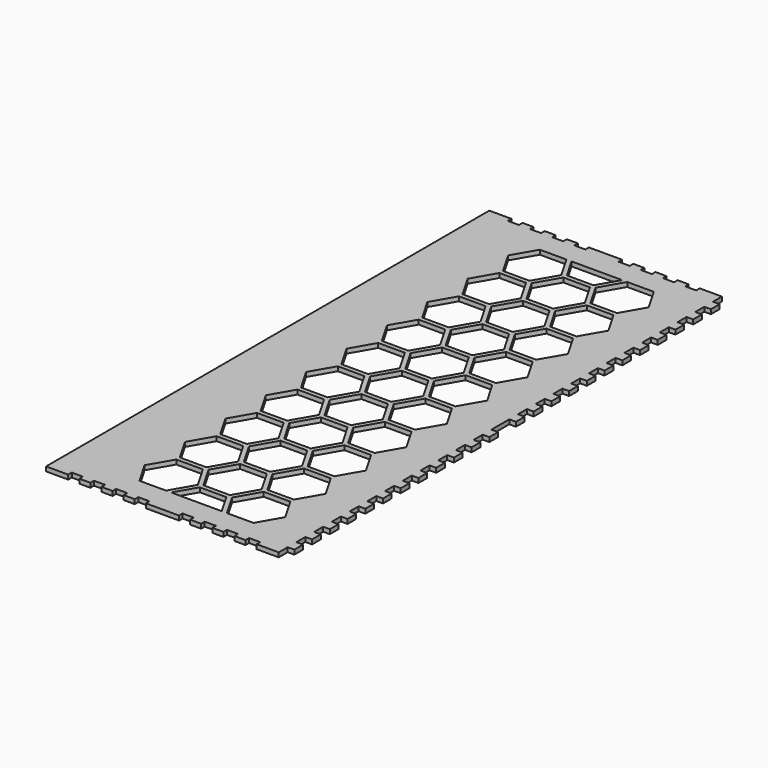
from build123d import *

# Parameters (mm, degrees)
F0_W     = 3
F0_H     = 4.9
F2_DEPTH = 2
F3_DEPTH = 12.5


with BuildPart() as f2:
    # F0 (on Top) → F2 (new body)
    with BuildSketch(Plane.XY):
        with Locations((54, -77.5)):
            Rectangle(F0_W, F0_H)
        with Locations((54, 87.5)):
            Rectangle(F0_W, F0_H)
        with Locations((54, 77.5)):
            Rectangle(F0_W, F0_H)
        with Locations((54, 37.5)):
            Rectangle(F0_W, F0_H)
        with Locations((54, 97.5)):
            Rectangle(F0_W, F0_H)
        with Locations((54, 67.5)):
            Rectangle(F0_W, F0_H)
        with Locations((54, 57.5)):
            Rectangle(F0_W, F0_H)
        with Locations((54, -107.5)):
            Rectangle(F0_W, F0_H)
        with Locations((54, 17.5)):
            Rectangle(F0_W, F0_H)
        with Locations((54, 27.5)):
            Rectangle(F0_W, F0_H)
        with Locations((54, -117.5)):
            Rectangle(F0_W, F0_H)
        with Locations((54, -27.5)):
            Rectangle(F0_W, F0_H)
        with Locations((54, 47.5)):
            Rectangle(F0_W, F0_H)
        with Locations((54, -17.5)):
            Rectangle(F0_W, F0_H)
        with Locations((54, -7.5)):
            Rectangle(F0_W, F0_H)
        with Locations((54, 7.5)):
            Rectangle(F0_W, F0_H)
        with Locations((54, -87.5)):
            Rectangle(F0_W, F0_H)
        with Locations((54, -37.5)):
            Rectangle(F0_W, F0_H)
        with Locations((54, -47.5)):
            Rectangle(F0_W, F0_H)
        with Locations((54, 117.5)):
            Rectangle(F0_W, F0_H)
        Polygon((-42.5, 125), (-52.5, 125), (-52.5, -125), (-42.5, -125), (-42.5, -123), (-37.5, -123), (-37.5, -125), (-32.5, -125), (-32.5, -123), (-27.5, -123), (-27.5, -125), (-22.5, -125), (-22.5, -123), (-17.5, -123), (-17.5, -125), (-12.5, -125), (-12.5, -123), (-7.5, -123), (-7.5, -125), (7.5, -125), (7.5, -123), (12.5, -123), (12.5, -125), (17.5, -125), (17.5, -123), (22.5, -123), (22.5, -125), (27.5, -125), (27.5, -123), (32.5, -123), (32.5, -125), (37.5, -125), (37.5, -123), (42.5, -123), (42.5, -125), (52.5, -125), (52.5, -119.95), (52.5, -115.05), (52.5, -109.95), (52.5, -105.05), (52.5, -99.95), (52.5, -95.05), (52.5, -89.95), (52.5, -85.05), (52.5, -79.95), (52.5, -75.05), (52.5, -69.95), (52.5, -65.05), (52.5, -59.95), (52.5, -55.05), (52.5, -49.95), (52.5, -45.05), (52.5, -39.95), (52.5, -35.05), (52.5, -29.95), (52.5, -25.05), (52.5, -19.95), (52.5, -15.05), (52.5, -9.95), (52.5, -5.05), (52.5, 5.05), (52.5, 9.95), (52.5, 15.05), (52.5, 19.95), (52.5, 25.05), (52.5, 29.95), (52.5, 35.05), (52.5, 39.95), (52.5, 45.05), (52.5, 49.95), (52.5, 55.05), (52.5, 59.95), (52.5, 65.05), (52.5, 69.95), (52.5, 75.05), (52.5, 79.95), (52.5, 85.05), (52.5, 89.95), (52.5, 95.05), (52.5, 99.95), (52.5, 105.05), (52.5, 109.95), (52.5, 115.05), (52.5, 119.95), (52.5, 124.800322), (52.5, 125), (42.5, 125), (42.5, 123), (37.5, 123), (37.5, 125), (32.5, 125), (32.5, 123), (27.5, 123), (27.5, 125), (22.5, 125), (22.5, 123), (17.5, 123), (17.5, 125), (12.5, 125), (12.5, 123), (7.5, 123), (7.5, 125), (-7.5, 125), (-7.5, 123), (-12.5, 123), (-12.5, 125), (-17.5, 125), (-17.5, 123), (-22.5, 123), (-22.5, 125), (-27.5, 125), (-27.5, 123), (-32.5, 123), (-32.5, 125), (-37.5, 125), (-37.5, 123), (-42.5, 123), align=None)
        with Locations((54, 107.5)):
            Rectangle(F0_W, F0_H)
        with Locations((54, -57.5)):
            Rectangle(F0_W, F0_H)
        with Locations((54, -97.5)):
            Rectangle(F0_W, F0_H)
        with Locations((54, -67.5)):
            Rectangle(F0_W, F0_H)
    extrude(amount=F2_DEPTH)

    # F1 (on face) → F3 (cut, symmetric)
    with BuildSketch(Plane.XY):
        Polygon((-1.964102, -102.607695), (-7.964102, -92.21539), (-19.964102, -92.21539), (-25.964102, -102.607695), (-19.964102, -113), (-7.964102, -113), align=None)
        Polygon((-1.964102, -79.823085), (-7.964102, -69.430781), (-19.964102, -69.430781), (-25.964102, -79.823085), (-19.964102, -90.21539), (-7.964102, -90.21539), align=None)
        Polygon((-1.964102, -57.038476), (-7.964102, -46.646171), (-19.964102, -46.646171), (-25.964102, -57.038476), (-19.964102, -67.430781), (-7.964102, -67.430781), align=None)
        Polygon((-1.964102, -34.253866), (-7.964102, -23.861561), (-19.964102, -23.861561), (-25.964102, -34.253866), (-19.964102, -44.646171), (-7.964102, -44.646171), align=None)
        Polygon((-1.964102, -11.469256), (-7.964102, -1.076952), (-19.964102, -1.076952), (-25.964102, -11.469256), (-19.964102, -21.861561), (-7.964102, -21.861561), align=None)
        Polygon((-1.964102, 11.315353), (-7.964102, 21.707658), (-19.964102, 21.707658), (-25.964102, 11.315353), (-19.964102, 0.923048), (-7.964102, 0.923048), align=None)
        Polygon((-1.964102, 34.099963), (-7.964102, 44.492268), (-19.964102, 44.492268), (-25.964102, 34.099963), (-19.964102, 23.707658), (-7.964102, 23.707658), align=None)
        Polygon((-1.964102, 56.884573), (-7.964102, 67.276878), (-19.964102, 67.276878), (-25.964102, 56.884573), (-19.964102, 46.492268), (-7.964102, 46.492268), align=None)
        Polygon((-1.964102, 79.669182), (-7.964102, 90.061487), (-19.964102, 90.061487), (-25.964102, 79.669182), (-19.964102, 69.276878), (-7.964102, 69.276878), align=None)
        Polygon((-1.964102, 102.453792), (-7.964102, 112.846097), (-19.964102, 112.846097), (-25.964102, 102.453792), (-19.964102, 92.061487), (-7.964102, 92.061487), align=None)
        Polygon((17.190599, -113), (11.767949, -103.607695), (-0.232051, -103.607695), (-5.654701, -113), align=None)
        Polygon((17.767949, -68.430781), (11.767949, -58.038476), (-0.232051, -58.038476), (-6.232051, -68.430781), (-0.232051, -78.823085), (11.767949, -78.823085), align=None)
        Polygon((17.767949, -45.646171), (11.767949, -35.253866), (-0.232051, -35.253866), (-6.232051, -45.646171), (-0.232051, -56.038476), (11.767949, -56.038476), align=None)
        Polygon((17.767949, -22.861561), (11.767949, -12.469256), (-0.232051, -12.469256), (-6.232051, -22.861561), (-0.232051, -33.253866), (11.767949, -33.253866), align=None)
        Polygon((17.767949, -0.076952), (11.767949, 10.315353), (-0.232051, 10.315353), (-6.232051, -0.076952), (-0.232051, -10.469256), (11.767949, -10.469256), align=None)
        Polygon((17.767949, 22.707658), (11.767949, 33.099963), (-0.232051, 33.099963), (-6.232051, 22.707658), (-0.232051, 12.315353), (11.767949, 12.315353), align=None)
        Polygon((17.767949, 45.492268), (11.767949, 55.884573), (-0.232051, 55.884573), (-6.232051, 45.492268), (-0.232051, 35.099963), (11.767949, 35.099963), align=None)
        Polygon((17.767949, 68.276878), (11.767949, 78.669182), (-0.232051, 78.669182), (-6.232051, 68.276878), (-0.232051, 57.884573), (11.767949, 57.884573), align=None)
        Polygon((17.767949, 91.061487), (11.767949, 101.453792), (-0.232051, 101.453792), (-6.232051, 91.061487), (-0.232051, 80.669182), (11.767949, 80.669182), align=None)
        Polygon((17.767949, -91.21539), (11.767949, -80.823085), (-0.232051, -80.823085), (-6.232051, -91.21539), (-0.232051, -101.607695), (11.767949, -101.607695), align=None)
        Polygon((11.767949, 103.453792), (17.190599, 112.846097), (-5.654701, 112.846097), (-0.232051, 103.453792), align=None)
        Polygon((37.5, -102.607695), (31.5, -92.21539), (19.5, -92.21539), (13.5, -102.607695), (19.5, -113), (31.5, -113), align=None)
        Polygon((37.5, -79.823085), (31.5, -69.430781), (19.5, -69.430781), (13.5, -79.823085), (19.5, -90.21539), (31.5, -90.21539), align=None)
        Polygon((37.5, -57.038476), (31.5, -46.646171), (19.5, -46.646171), (13.5, -57.038476), (19.5, -67.430781), (31.5, -67.430781), align=None)
        Polygon((37.5, -34.253866), (31.5, -23.861561), (19.5, -23.861561), (13.5, -34.253866), (19.5, -44.646171), (31.5, -44.646171), align=None)
        Polygon((37.5, -11.469256), (31.5, -1.076952), (19.5, -1.076952), (13.5, -11.469256), (19.5, -21.861561), (31.5, -21.861561), align=None)
        Polygon((37.5, 11.315353), (31.5, 21.707658), (19.5, 21.707658), (13.5, 11.315353), (19.5, 0.923048), (31.5, 0.923048), align=None)
        Polygon((37.5, 34.099963), (31.5, 44.492268), (19.5, 44.492268), (13.5, 34.099963), (19.5, 23.707658), (31.5, 23.707658), align=None)
        Polygon((37.5, 56.884573), (31.5, 67.276878), (19.5, 67.276878), (13.5, 56.884573), (19.5, 46.492268), (31.5, 46.492268), align=None)
        Polygon((37.5, 79.669182), (31.5, 90.061487), (19.5, 90.061487), (13.5, 79.669182), (19.5, 69.276878), (31.5, 69.276878), align=None)
        Polygon((37.5, 102.453792), (31.5, 112.846097), (19.5, 112.846097), (13.5, 102.453792), (19.5, 92.061487), (31.5, 92.061487), align=None)
    extrude(amount=F3_DEPTH, both=True, mode=Mode.SUBTRACT)


solid = f2.part
